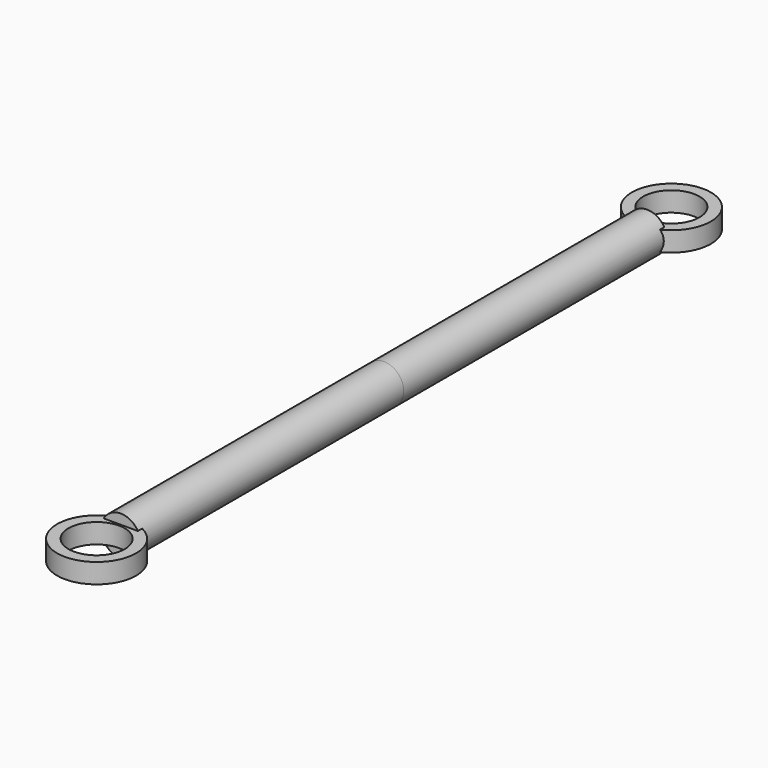
from build123d import *

# Parameters (mm, degrees)
F0_R     = 7.5
F1_DEPTH = 125
F2_R     = 15
F2_R_2   = 10.7
F3_DEPTH = 3.75


with BuildPart() as f1:
    # F0 (on Front) → F1 (new body)
    with BuildSketch(Plane.XZ):
        Circle(F0_R)
    extrude(amount=F1_DEPTH)

    # F2 (on Top) → F3 (join, symmetric)
    with BuildSketch(Plane.XY):
        with Locations((0, -136.475876)):
            Circle(F2_R)
        with Locations((0, -136.475876)):
            Circle(F2_R_2, mode=Mode.SUBTRACT)
    extrude(amount=F3_DEPTH, both=True)

    # F4: F1 across plane


with BuildPart() as f1_1:
    add(f1.part)
    add(f1.part.mirror(Plane.XZ))


solid = f1_1.part
